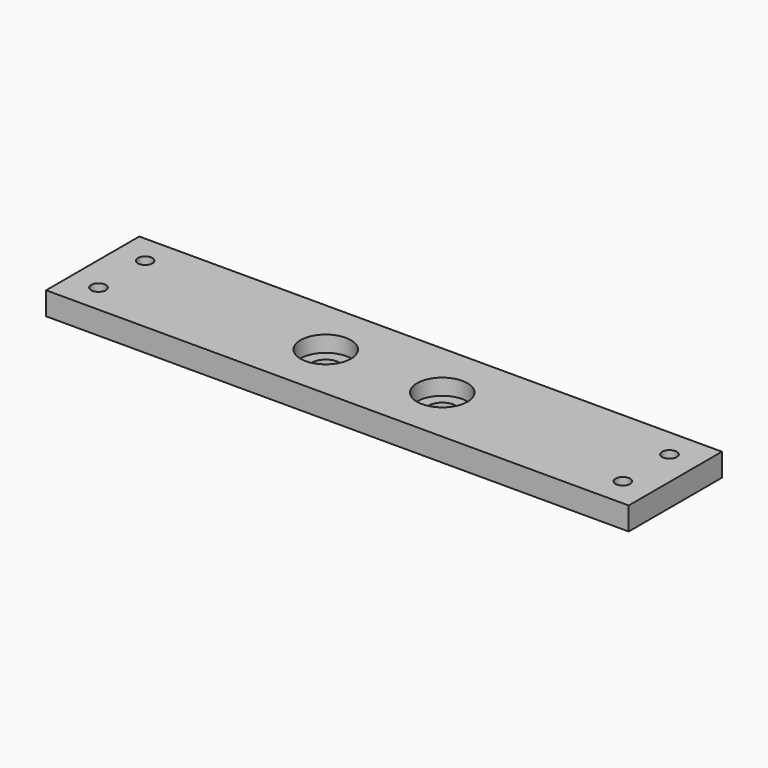
from build123d import *

# Parameters (mm, degrees)
F0_W     = 254
F0_H     = 50.8
F0_R     = 3.175
F0_R_2   = 6
F1_DEPTH = 10
F2_R     = 11
F2_R_2   = 6
F3_DEPTH = 7
F4_R     = 3.175
F5_DEPTH = 5.08


with BuildPart() as f1:
    # F0 (on Top) → F1 (new body)
    with BuildSketch(Plane.XY):
        Rectangle(F0_W, F0_H)
        with Locations((-114.3, -12.7)):
            Circle(F0_R, mode=Mode.SUBTRACT)
        with Locations((-25.4, 0)):
            Circle(F0_R_2, mode=Mode.SUBTRACT)
        with Locations((114.3, -12.7)):
            Circle(F0_R, mode=Mode.SUBTRACT)
        with Locations((25.4, 0)):
            Circle(F0_R_2, mode=Mode.SUBTRACT)
        with Locations((-114.3, 12.7)):
            Circle(F0_R, mode=Mode.SUBTRACT)
        with Locations((114.3, 12.7)):
            Circle(F0_R, mode=Mode.SUBTRACT)
    extrude(amount=F1_DEPTH)

    # F2 (on face) → F3 (cut)
    with BuildSketch(Plane.XY.offset(10)):
        with Locations((-25.4, 0)):
            Circle(F2_R)
        with Locations((-25.4, 0)):
            Circle(F2_R_2, mode=Mode.SUBTRACT)
        with Locations((25.4, 0)):
            Circle(F2_R)
        with Locations((25.4, 0)):
            Circle(F2_R_2, mode=Mode.SUBTRACT)
    extrude(amount=-F3_DEPTH, mode=Mode.SUBTRACT)

    # F4 (on face) → F5 (cut)
    with BuildSketch(Plane(origin=(0, 0, 0), x_dir=(1, 0, 0), z_dir=(0, 0, -1))):
        Polygon((-111.000443, 18.415), (-117.599557, 18.415), (-120.899114, 12.7), (-117.599557, 6.985), (-111.000443, 6.985), (-107.700886, 12.7), align=None)
        with Locations((-114.3, 12.7)):
            Circle(F4_R, mode=Mode.SUBTRACT)
        Polygon((-111.000443, -6.985), (-117.599557, -6.985), (-120.899114, -12.7), (-117.599557, -18.415), (-111.000443, -18.415), (-107.700886, -12.7), align=None)
        with Locations((-114.3, -12.7)):
            Circle(F4_R, mode=Mode.SUBTRACT)
        Polygon((117.599557, -6.985), (111.000443, -6.985), (107.700886, -12.7), (111.000443, -18.415), (117.599557, -18.415), (120.899114, -12.7), align=None)
        with Locations((114.3, -12.7)):
            Circle(F4_R, mode=Mode.SUBTRACT)
        Polygon((117.599557, 18.415), (111.000443, 18.415), (107.700886, 12.7), (111.000443, 6.985), (117.599557, 6.985), (120.899114, 12.7), align=None)
        with Locations((114.3, 12.7)):
            Circle(F4_R, mode=Mode.SUBTRACT)
    extrude(amount=-F5_DEPTH, mode=Mode.SUBTRACT)


solid = f1.part
